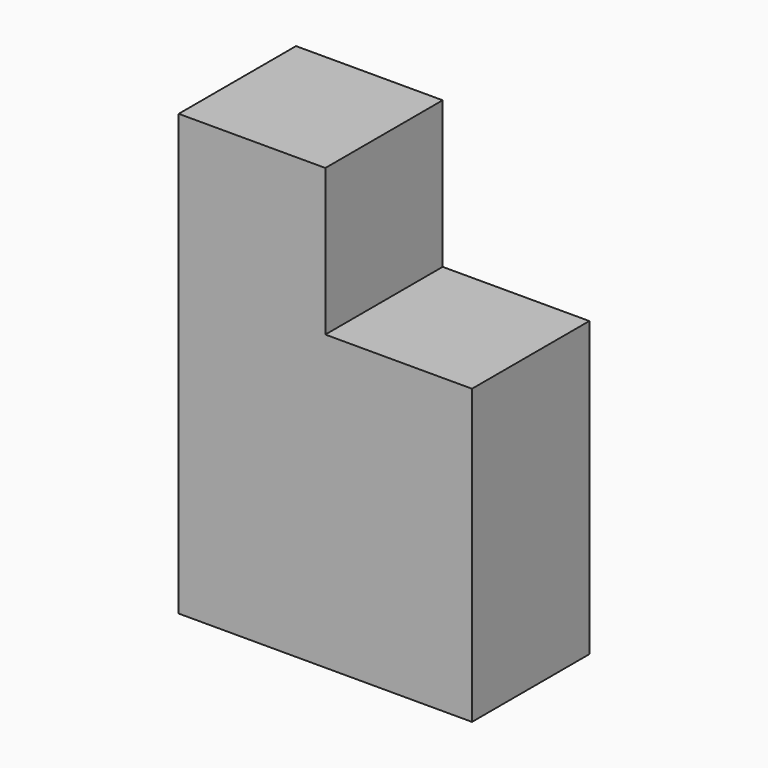
from build123d import *

# Parameters (mm, degrees)
F1_DEPTH = 19.05
F2_W     = 19.05
F2_H     = 19.05
F3_DEPTH = 19.05
F4_W     = 19.05
F4_H     = 19.05
F5_DEPTH = 19.05


with BuildPart() as f1:
    # F0 (on Front) → F1 (new body)
    with BuildSketch(Plane.XZ):
        Polygon((-56.113421, 44.56142), (-75.163421, 44.56142), (-75.163421, -12.58858), (-37.063421, -12.58858), (-37.063421, 6.46142), (-56.113421, 6.46142), align=None)
    extrude(amount=F1_DEPTH)

    # F2 (on face) → F3 (join)
    with BuildSketch(Plane.YZ.offset(-56.113421)):
        with Locations((-9.525, 15.98642)):
            Rectangle(F2_W, F2_H)
    extrude(amount=F3_DEPTH)

    # F4 (on face) → F5 (join)
    with BuildSketch(Plane(origin=(0, 0, 0), x_dir=(-1, 0, 0), z_dir=(0, 1, 0))):
        with Locations((65.638421, -3.06358)):
            Rectangle(F4_W, F4_H)
    extrude(amount=F5_DEPTH)


solid = f1.part
